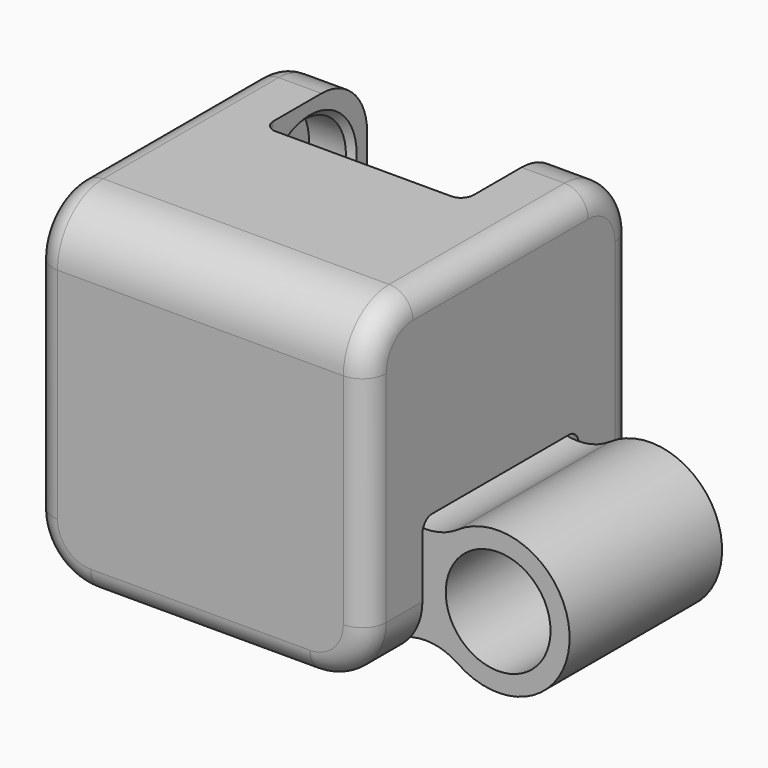
from build123d import *

# Parameters (mm, degrees)
F4_W      = 14
F4_H      = 14
F5_DEPTH  = 14
F6_R      = 2.2
F8_DEPTH  = 4.1
F9_DEPTH  = 6
F10_R     = 2.2
F11_DEPTH = 4.2
F12_DEPTH = 6
F13_R     = 2.4
F14_R     = 0.5
F15_R     = 2.2
F16_DEPTH = 4
F17_SIZE  = 0.25
F18_R     = 1


with BuildPart() as f5:
    # F4 (on Top) → F5 (new body)
    with BuildSketch(Plane.XY):
        Rectangle(F4_W, F4_H)
    extrude(amount=F5_DEPTH)

    # F6 (on Front) → F8 (cut, symmetric)
    with BuildSketch(Plane.XZ):
        with BuildLine():
            Line((1.5625072061, 0), (7, 0))
            Line((7, 0), (7, 5.4374927939))
            Line((7, 5.4374927939), (5.30112367, 6.1411904105))
            ThreePointArc((5.30112367, 6.1411904105), (1.595836944, 5.404163056), (0.8588095895, 1.69887633))
            Line((0.8588095895, 1.69887633), (1.5625072061, 0))
        make_face()
        with Locations((4, 3)):
            Circle(F6_R, mode=Mode.SUBTRACT)
        with Locations((4, 3)):
            Circle(F6_R)
    extrude(amount=F8_DEPTH, both=True, mode=Mode.SUBTRACT)

    # F6 (on Front) → F9 (cut, symmetric)
    with BuildSketch(Plane.XZ):
        with Locations((4, 3)):
            Circle(F6_R)
    extrude(amount=F9_DEPTH, both=True, mode=Mode.SUBTRACT)

    # F10 (on Right) → F11 (cut, symmetric)
    with BuildSketch(Plane.YZ):
        with BuildLine():
            Line((7, 14), (1.5625072061, 14))
            Line((1.5625072061, 14), (0.8588095895, 12.30112367))
            ThreePointArc((0.8588095895, 12.30112367), (1.595836944, 8.595836944), (5.30112367, 7.8588095895))
            Line((5.30112367, 7.8588095895), (7, 8.5625072061))
            Line((7, 8.5625072061), (7, 14))
        make_face()
        with Locations((4, 11)):
            Circle(F10_R, mode=Mode.SUBTRACT)
        with Locations((4, 11)):
            Circle(F10_R)
    extrude(amount=F11_DEPTH, both=True, mode=Mode.SUBTRACT)

    # F10 (on Right) → F12 (cut, symmetric)
    with BuildSketch(Plane.YZ):
        with Locations((4, 11)):
            Circle(F10_R)
    extrude(amount=F12_DEPTH, both=True, mode=Mode.SUBTRACT)

    # F13
    f13_edges = [f5.edges().sort_by_distance(p)[0] for p in [
        (7, -5.55, 0),
        (7, 5.55, 0),
        (-5.6, 7, 14),
        (5.6, 7, 14),
        (0, -7, 14),
        (-7, 0, 0),
    ]]
    fillet(f13_edges, radius=F13_R)

    # F14
    f14_edges = [f5.edges().sort_by_distance(p)[0] for p in [
        (1.210658, -4.1, 0.849438),
        (1.210658, 4.1, 0.849438),
        (4.2, 6.150562, 8.210658),
        (-4.2, 6.150562, 8.210658),
    ]]
    fillet(f14_edges, radius=F14_R)

    # F17
    f17_edges = [f5.edges().sort_by_distance(p)[0] for p in [
        (1.8, 4.1, 3),
        (1.8, -4.1, 3),
        (-4.2, 1.8, 11),
        (4.2, 1.8, 11),
    ]]
    chamfer(f17_edges, length=F17_SIZE)

    # F18
    f18_edges = [f5.edges().sort_by_distance(p)[0] for p in [
        (-7, 0, 14),
    ]]
    fillet(f18_edges, radius=F18_R)


with BuildPart() as f16:
    # F15 (on Front) → F16 (new body, symmetric)
    with BuildSketch(Plane.XZ):
        with BuildLine():
            ThreePointArc((8.4055555556, 5.4756530501), (7.05, 5.0561754903), (5.6944444444, 5.4756530501))
            ThreePointArc((5.6944444444, 5.4756530501), (1, 3), (5.6944444444, 0.5243469499))
            ThreePointArc((5.6944444444, 0.5243469499), (7.05, 0.9438245097), (8.4055555556, 0.5243469499))
            ThreePointArc((8.4055555556, 0.5243469499), (13.1, 3), (8.4055555556, 5.4756530501))
        make_face()
        with Locations((4, 3)):
            Circle(F15_R, mode=Mode.SUBTRACT)
        with Locations((10.1, 3)):
            Circle(F15_R, mode=Mode.SUBTRACT)
    extrude(amount=F16_DEPTH, both=True)


solid = Compound([f5.part, f16.part])
